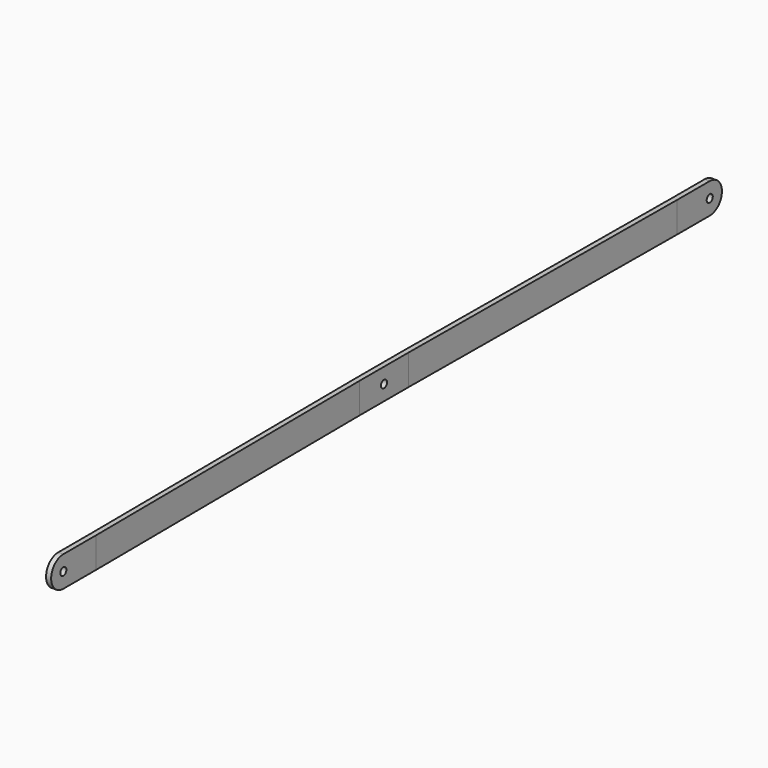
from build123d import *

# Parameters (mm, degrees)
F0_R     = 2.38125
F1_DEPTH = 3.175
F3_DEPTH = 19.05
F5_DEPTH = 25.4
F6_R     = 2.38125
F7_DEPTH = 25.4


with BuildPart() as f1:
    # F0 (on Right) → F1 (new body)
    with BuildSketch(Plane.YZ):
        with BuildLine():
            Line((505.190684, 9.525), (0, 9.525))
            ThreePointArc((0, 9.525), (-9.525, 0), (0, -9.525))
            Line((0, -9.525), (505.190684, -9.525))
            ThreePointArc((505.190684, -9.525), (514.715684, 0), (505.190684, 9.525))
        make_face()
        Circle(F0_R, mode=Mode.SUBTRACT)
        with Locations((252.595342, 0)):
            Circle(F0_R, mode=Mode.SUBTRACT)
        with Locations((505.190684, 0)):
            Circle(F0_R, mode=Mode.SUBTRACT)
    extrude(amount=F1_DEPTH)

    # F2 (on face) → F3 (join)
    with BuildSketch(Plane.XY.offset(9.525)):
        Polygon((-1.5875, 233.545342), (0, 25.4), (0, 479.790684), (-1.5875, 271.645342), align=None)
    extrude(amount=-F3_DEPTH)

    # F4 (on face) → F5 (cut)
    with BuildSketch(Plane.XY.offset(9.525)):
        Polygon((1.5875, 233.557449), (3.175, 25.412107), (3.175, 479.778576), (1.5875, 271.633234), align=None)
    extrude(amount=-F5_DEPTH, mode=Mode.SUBTRACT)

    # F6 (on face) → F7 (cut)
    with BuildSketch(Plane.YZ.offset(1.5875)):
        with Locations((252.595342, 0)):
            Circle(F6_R)
    extrude(amount=-F7_DEPTH, mode=Mode.SUBTRACT)


solid = f1.part
